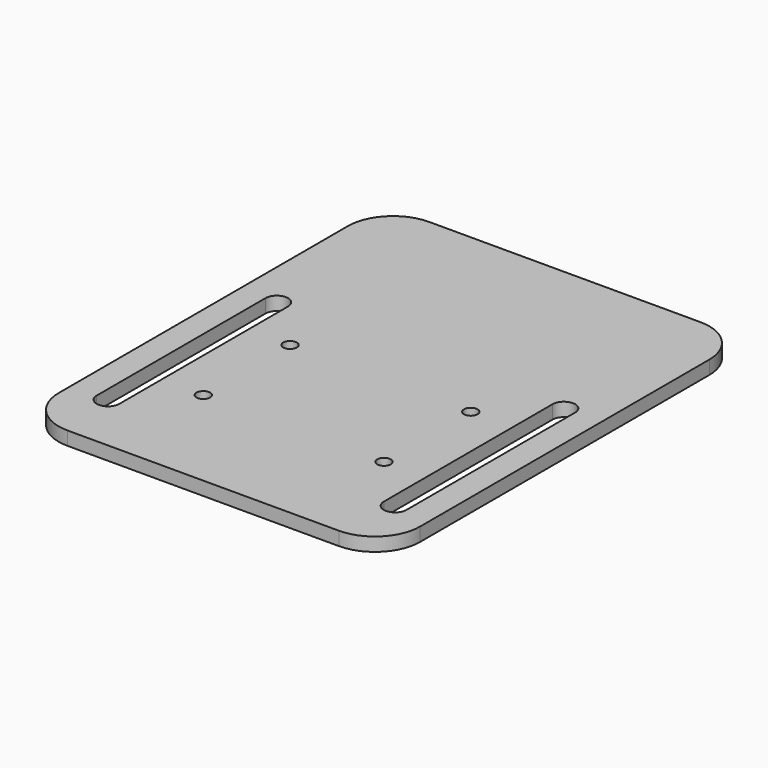
from build123d import *

# Parameters (mm, degrees)
F0_W     = 40
F0_H     = 100
F1_DEPTH = 3
F3_D     = 3
F5_DEPTH = 25
F6_R     = 10


with BuildPart() as f1:
    # F0 (on Top) → F1 (new body)
    with BuildSketch(Plane.XY):
        with Locations((20, 50)):
            Rectangle(F0_W, F0_H)
    extrude(amount=F1_DEPTH)

    # F3 (through all)
    with Locations(Plane(origin=(0, 0, 0), x_dir=(1, 0, 0), z_dir=(0, 0, -1))):
        with Locations((20, -49), (20, -25)):
            Hole(F3_D / 2)

    # F4 (on face) → F5 (cut)
    with BuildSketch(Plane.XY.offset(3)):
        with BuildLine():
            ThreePointArc((34.2711234093, 60.0486546755), (31.7711234093, 62.5486546755), (29.2711234093, 60.0486546755))
            Line((29.2711234093, 60.0486546755), (29.2711234093, 13.3645236492))
            ThreePointArc((29.2711234093, 13.3645236492), (31.7711234093, 10.8645236492), (34.2711234093, 13.3645236492))
            Line((34.2711234093, 13.3645236492), (34.2711234093, 60.0486546755))
        make_face()
    extrude(amount=-F5_DEPTH, mode=Mode.SUBTRACT)

    # F6
    f6_edges = [f1.edges().sort_by_distance(p)[0] for p in [
        (40, 100, 1.5),
        (40, 0, 1.5),
    ]]
    fillet(f6_edges, radius=F6_R)

    # F7: F1 across plane


with BuildPart() as f1_1:
    add(f1.part)
    add(f1.part.mirror(Plane.YZ))


solid = f1_1.part
